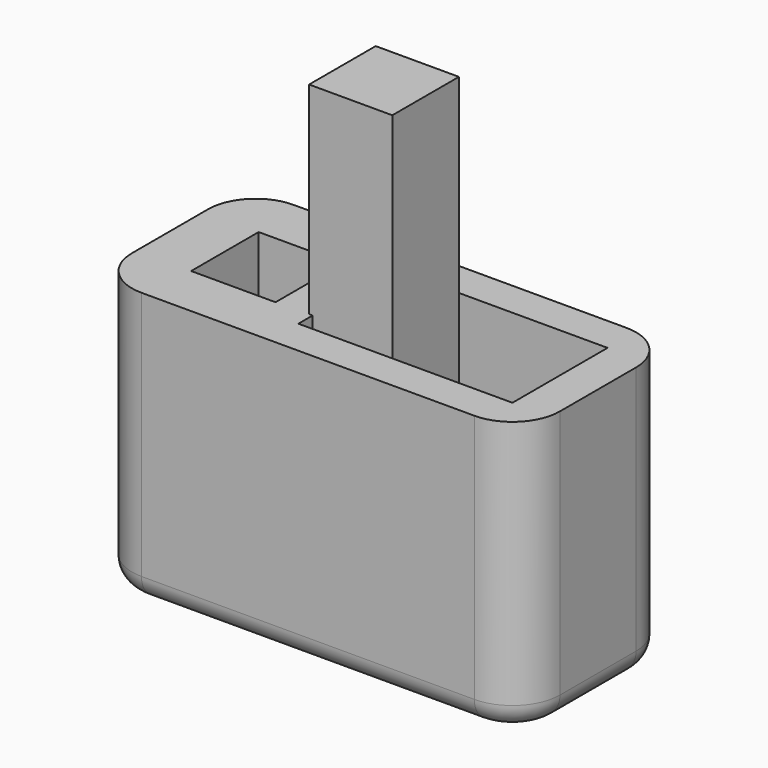
from build123d import *

# Parameters (mm, degrees)
SKETCH_W      = 18
SKETCH_H      = 8
PAD_DEPTH     = 11.5
SKETCH001_W   = 9
SKETCH001_H   = 5
SKETCH001_W_2 = 3.55
SKETCH001_H_2 = 3.55
POCKET_DEPTH  = 9.9
FILLET_R      = 2
FILLET001_R   = 1
SKETCH002_W   = 3.5
SKETCH002_H   = 3.5
PAD001_DEPTH  = 20


with BuildPart() as body:
    # Sketch (on XY_Plane of Origin) → Pad (new body)
    with BuildSketch(Plane.XY):
        Rectangle(SKETCH_W, SKETCH_H)
    extrude(amount=PAD_DEPTH)

    # Sketch001 (on Face6 of Pad) → Pocket (cut)
    with BuildSketch(Plane.XY.offset(11.5)):
        with Locations((2.9, 0)):
            Rectangle(SKETCH001_W, SKETCH001_H)
        with Locations((-4.915, 0)):
            Rectangle(SKETCH001_W_2, SKETCH001_H_2)
    extrude(amount=-POCKET_DEPTH, mode=Mode.SUBTRACT)

    # Fillet
    fillet_edges = [body.edges().sort_by_distance(p)[0] for p in [
        (9, -4, 5.75),
        (9, 4, 5.75),
        (-9, -4, 5.75),
        (-9, 4, 5.75),
    ]]
    fillet(fillet_edges, radius=FILLET_R)

    # Fillet001
    fillet001_edges = [body.edges().sort_by_distance(p)[0] for p in [
        (0, -4, 0),
        (0, 4, 0),
        (9, 0, 0),
        (-9, 0, 0),
    ]]
    fillet(fillet001_edges, radius=FILLET001_R)


with BuildPart() as body001:
    # Sketch002 (on XY_Plane001 of Origin002) → Pad001 (new body)
    with BuildSketch(Plane.XY):
        Rectangle(SKETCH002_W, SKETCH002_H)
    extrude(amount=PAD001_DEPTH)


solid = Compound([body.part, body001.part])
